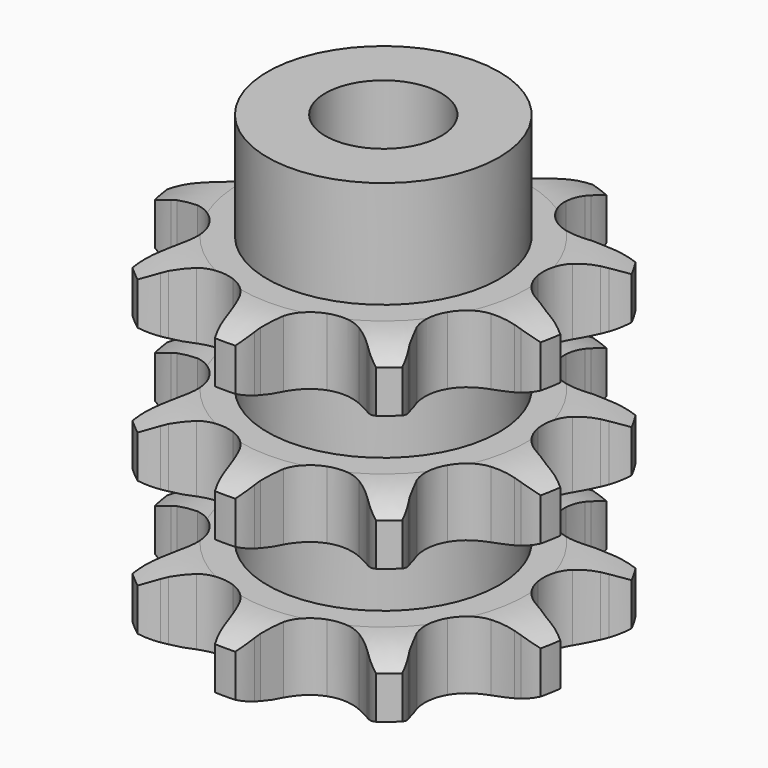
from build123d import *

# Parameters (mm, degrees)
PAD_DEPTH         = 34.9
SKETCH001_R       = 12
PAD001_DEPTH      = 46
SKETCH002_R       = 6
POCKET_DEPTH      = 0.001
POCKET_DEPTH_BACK = 46.001


with BuildPart() as part:
    # Sprocket → Pad (new body)
    with BuildSketch(Plane.XY):
        with BuildLine():
            ThreePointArc((-7.572353, 20.80487), (-6.050007, 19.640299), (-4.884407, 18.11874))
            Line((-4.884407, 18.11874), (-4.557279, 17.549591))
            ThreePointArc((-4.557279, 17.549591), (-3.937732, 16.589469), (-3.222946, 15.697979))
            ThreePointArc((-3.222946, 15.697979), (-1.766272, 14.629901), (0, 14.251783))
            ThreePointArc((0, 14.251783), (1.766272, 14.629901), (3.222946, 15.697979))
            ThreePointArc((3.222946, 15.697979), (3.937732, 16.589469), (4.557279, 17.549591))
            Line((4.557279, 17.549591), (4.884407, 18.11874))
            ThreePointArc((4.884407, 18.11874), (6.050007, 19.640299), (7.572353, 20.80487))
            ThreePointArc((7.572353, 20.80487), (7.989967, 18.934211), (7.904828, 17.019396))
            Line((7.904828, 17.019396), (7.789581, 16.373129))
            ThreePointArc((7.789581, 16.373129), (7.647027, 15.239396), (7.621546, 14.09702))
            ThreePointArc((7.621546, 14.09702), (8.050877, 12.342492), (9.160869, 10.917499))
            ThreePointArc((9.160869, 10.917499), (10.756962, 10.071817), (12.559387, 9.95368))
            Line((12.559387, 9.95368), (14.771738, 10.514404))
            ThreePointArc((14.771738, 10.514404), (15.07829, 10.631812), (15.388174, 10.740123))
            ThreePointArc((15.388174, 10.740123), (17.259115, 11.156473), (19.173872, 11.07004))
            ThreePointArc((19.173872, 11.07004), (18.291346, 9.368596), (16.995307, 7.956488))
            Line((16.995307, 7.956488), (16.49161, 7.535498))
            ThreePointArc((16.49161, 7.535498), (15.653658, 6.75864), (14.899833, 5.899908))
            ThreePointArc((14.899833, 5.899908), (14.10093, 4.279894), (14.035266, 2.474796))
            ThreePointArc((14.035266, 2.474796), (14.71435, 0.801017), (16.01915, -0.448057))
            Line((16.01915, -0.448057), (18.074336, -1.440589))
            ThreePointArc((18.074336, -1.440589), (18.384638, -1.547697), (18.691644, -1.663916))
            ThreePointArc((18.691644, -1.663916), (20.392491, -2.547591), (21.803723, -3.844585))
            ThreePointArc((21.803723, -3.844585), (20.034001, -4.58069), (18.133492, -4.829349))
            Line((18.133492, -4.829349), (17.477031, -4.828076))
            ThreePointArc((17.477031, -4.828076), (16.335767, -4.884558), (15.206322, -5.057836))
            ThreePointArc((15.206322, -5.057836), (13.553002, -5.785314), (12.342406, -7.125891))
            ThreePointArc((12.342406, -7.125891), (11.78673, -8.844587), (11.983376, -10.640143))
            Line((11.983376, -10.640143), (12.919752, -12.721515))
            ThreePointArc((12.919752, -12.721515), (13.088609, -13.003022), (13.249085, -13.289391))
            ThreePointArc((13.249085, -13.289391), (13.983995, -15.059609), (14.231369, -16.960285))
            ThreePointArc((14.231369, -16.960285), (12.402524, -16.38662), (10.786815, -15.35548))
            Line((10.786815, -15.35548), (10.284755, -14.932539))
            ThreePointArc((10.284755, -14.932539), (9.37419, -14.242218), (8.397604, -13.648963))
            ThreePointArc((8.397604, -13.648963), (6.663474, -13.14351), (4.874397, -13.392295))
            ThreePointArc((4.874397, -13.392295), (3.343968, -14.351711), (2.340446, -15.853588))
            Line((2.340446, -15.853588), (1.719872, -18.049902))
            ThreePointArc((1.719872, -18.049902), (1.668274, -18.374089), (1.607132, -18.696612))
            ThreePointArc((1.607132, -18.696612), (1.032231, -20.525068), (0, -22.14008))
            ThreePointArc((0, -22.14008), (-1.032231, -20.525068), (-1.607132, -18.696612))
            Line((-1.607132, -18.696612), (-1.719872, -18.049902))
            ThreePointArc((-1.719872, -18.049902), (-1.973675, -16.935785), (-2.340446, -15.853588))
            ThreePointArc((-2.340446, -15.853588), (-3.343968, -14.351711), (-4.874397, -13.392295))
            ThreePointArc((-4.874397, -13.392295), (-6.663474, -13.14351), (-8.397604, -13.648963))
            Line((-8.397604, -13.648963), (-10.284755, -14.932539))
            ThreePointArc((-10.284755, -14.932539), (-10.532664, -15.147715), (-10.786815, -15.35548))
            ThreePointArc((-10.786815, -15.35548), (-12.402524, -16.38662), (-14.231369, -16.960285))
            ThreePointArc((-14.231369, -16.960285), (-13.983995, -15.059609), (-13.249085, -13.289391))
            Line((-13.249085, -13.289391), (-12.919752, -12.721515))
            ThreePointArc((-12.919752, -12.721515), (-12.398035, -11.70491), (-11.983376, -10.640143))
            ThreePointArc((-11.983376, -10.640143), (-11.78673, -8.844587), (-12.342406, -7.125891))
            ThreePointArc((-12.342406, -7.125891), (-13.553002, -5.785314), (-15.206322, -5.057836))
            Line((-15.206322, -5.057836), (-17.477031, -4.828076))
            ThreePointArc((-17.477031, -4.828076), (-17.805252, -4.833557), (-18.133492, -4.829349))
            ThreePointArc((-18.133492, -4.829349), (-20.034001, -4.58069), (-21.803723, -3.844585))
            ThreePointArc((-21.803723, -3.844585), (-20.392491, -2.547591), (-18.691644, -1.663916))
            Line((-18.691644, -1.663916), (-18.074336, -1.440589))
            ThreePointArc((-18.074336, -1.440589), (-17.021218, -0.997178), (-16.01915, -0.448057))
            ThreePointArc((-16.01915, -0.448057), (-14.71435, 0.801017), (-14.035266, 2.474796))
            ThreePointArc((-14.035266, 2.474796), (-14.10093, 4.279894), (-14.899833, 5.899908))
            Line((-14.899833, 5.899908), (-16.49161, 7.535498))
            ThreePointArc((-16.49161, 7.535498), (-16.746565, 7.742276), (-16.995307, 7.956488))
            ThreePointArc((-16.995307, 7.956488), (-18.291346, 9.368596), (-19.173872, 11.07004))
            ThreePointArc((-19.173872, 11.07004), (-17.259115, 11.156473), (-15.388174, 10.740123))
            Line((-15.388174, 10.740123), (-14.771738, 10.514404))
            ThreePointArc((-14.771738, 10.514404), (-13.679983, 10.177145), (-12.559387, 9.95368))
            ThreePointArc((-12.559387, 9.95368), (-10.756962, 10.071817), (-9.160869, 10.917499))
            ThreePointArc((-9.160869, 10.917499), (-8.050877, 12.342492), (-7.621546, 14.09702))
            Line((-7.621546, 14.09702), (-7.789581, 16.373129))
            ThreePointArc((-7.789581, 16.373129), (-7.851974, 16.695412), (-7.904828, 17.019396))
            ThreePointArc((-7.904828, 17.019396), (-7.989967, 18.934211), (-7.572353, 20.80487))
        make_face()
    extrude(amount=PAD_DEPTH)

    # Sketch → Groove (revolve, cut)
    with BuildSketch(Plane.XZ):
        with BuildLine():
            ThreePointArc((14.833431, 0), (17.74032, 0.329167), (20.5, 1.3))
            Line((20.5, 1.3), (20.5, 5.7))
            ThreePointArc((20.5, 5.7), (17.74032, 6.670833), (14.833431, 7))
            Line((12, 7), (14.833431, 7))
            Line((12, 7), (12, 13.95))
            Line((12, 13.95), (14.833431, 13.95))
            ThreePointArc((14.833431, 13.95), (17.74032, 14.279167), (20.5, 15.25))
            Line((20.5, 19.65), (20.5, 15.25))
            ThreePointArc((20.5, 19.65), (17.74032, 20.620833), (14.833431, 20.95))
            Line((12, 20.95), (14.833431, 20.95))
            Line((12, 27.9), (12, 20.95))
            Line((14.833431, 27.9), (12, 27.9))
            ThreePointArc((14.833431, 27.9), (17.74032, 28.229167), (20.5, 29.2))
            Line((20.5, 29.2), (20.5, 33.6))
            ThreePointArc((20.5, 33.6), (17.74032, 34.570833), (14.833431, 34.9))
            Line((14.833431, 34.9), (30.5, 34.9))
            Line((30.5, 34.9), (30.5, 0))
            Line((14.833431, 0), (30.5, 0))
        make_face()
    revolve(axis=Axis((0, 0, 0), (0, 0, 1)), mode=Mode.SUBTRACT)

    # Sketch001 → Pad001 (join)
    with BuildSketch(Plane.XY):
        Circle(SKETCH001_R)
    extrude(amount=PAD001_DEPTH)

    # Sketch002 → Pocket (cut, two sides)
    with BuildSketch(Plane.XY) as pocket_sk:
        Circle(SKETCH002_R)
    extrude(amount=-POCKET_DEPTH, mode=Mode.SUBTRACT)
    extrude(pocket_sk.sketch, amount=POCKET_DEPTH_BACK, mode=Mode.SUBTRACT)


solid = part.part
